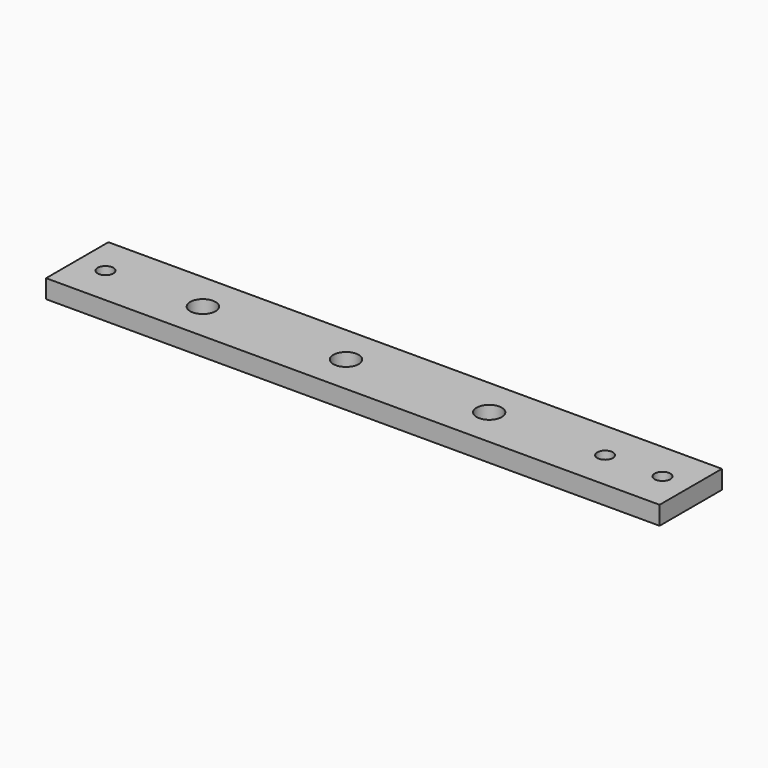
from build123d import *

# Parameters (mm, degrees)
F0_W     = 315
F0_H     = 40
F0_R     = 4
F0_R_2   = 6.5
F1_DEPTH = 9.5


with BuildPart() as f1:
    # F0 (on Top) → F1 (new body)
    with BuildSketch(Plane.XY):
        with Locations((157.5, 20)):
            Rectangle(F0_W, F0_H)
        with Locations((14.5, 20)):
            Circle(F0_R, mode=Mode.SUBTRACT)
        with Locations((64.5, 20)):
            Circle(F0_R_2, mode=Mode.SUBTRACT)
        with Locations((138, 20)):
            Circle(F0_R_2, mode=Mode.SUBTRACT)
        with Locations((211.5, 20)):
            Circle(F0_R_2, mode=Mode.SUBTRACT)
        with Locations((271, 20)):
            Circle(F0_R, mode=Mode.SUBTRACT)
        with Locations((300.5, 20)):
            Circle(F0_R, mode=Mode.SUBTRACT)
    extrude(amount=F1_DEPTH)


solid = f1.part
